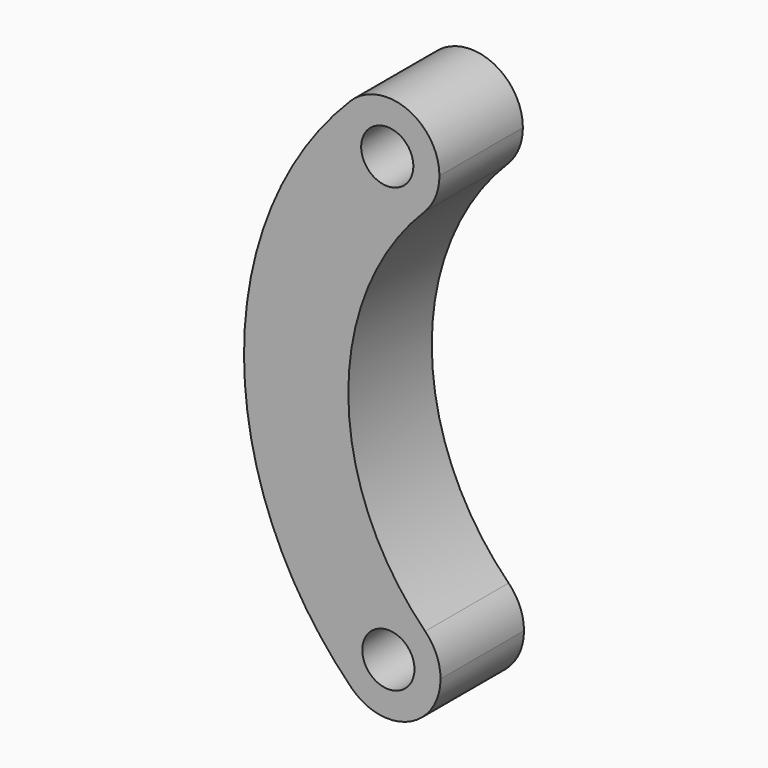
from build123d import *

# Parameters (mm, degrees)
F0_R     = 0.79375
F1_DEPTH = 3.175


with BuildPart() as f1:
    # F0 (on Front) → F1 (new body)
    with BuildSketch(Plane.XZ):
        with BuildLine():
            ThreePointArc((-3.9927783848, -5.5628118829), (-6.3316194647, 0.0440282554), (-4.0207951612, 5.6624733224))
            ThreePointArc((-4.0207951612, 5.6624733224), (-6.2658522276, 5.6568699137), (-6.2714555786, 7.9019269802))
            ThreePointArc((-6.2714555786, 7.9019269802), (-9.5066095757, 0.0361038994), (-6.2322320705, -7.8134722725))
            ThreePointArc((-6.2322320705, -7.8134722725), (-6.2378353965, -5.5684152606), (-3.9927783848, -5.5628118829))
        make_face()
        with BuildLine():
            ThreePointArc((-6.2714555786, 7.9019269802), (-6.2658522276, 5.6568699137), (-4.0207951612, 5.6624733224))
            ThreePointArc((-4.0207951612, 5.6624733224), (-3.6787096426, 6.176520959), (-3.5586253987, 6.7822001224))
            ThreePointArc((-3.5586253987, 6.7822001224), (-4.5404461975, 8.2496158629), (-6.2714555786, 7.9019269802))
        make_face()
        with Locations((-5.1461253987, 6.7822001224)):
            Circle(F0_R, mode=Mode.SUBTRACT)
        with BuildLine():
            ThreePointArc((-3.5250052017, -6.6881421035), (-3.6466057216, -6.0788023263), (-3.9927783848, -5.5628118829))
            ThreePointArc((-3.9927783848, -5.5628118829), (-6.2378353965, -5.5684152606), (-6.2322320705, -7.8134722725))
            ThreePointArc((-6.2322320705, -7.8134722725), (-4.5031654583, -8.1540415977), (-3.5250052017, -6.6881421035))
        make_face()
        with Locations((-5.1125052017, -6.6881421035)):
            Circle(F0_R, mode=Mode.SUBTRACT)
    extrude(amount=-F1_DEPTH)


solid = f1.part
